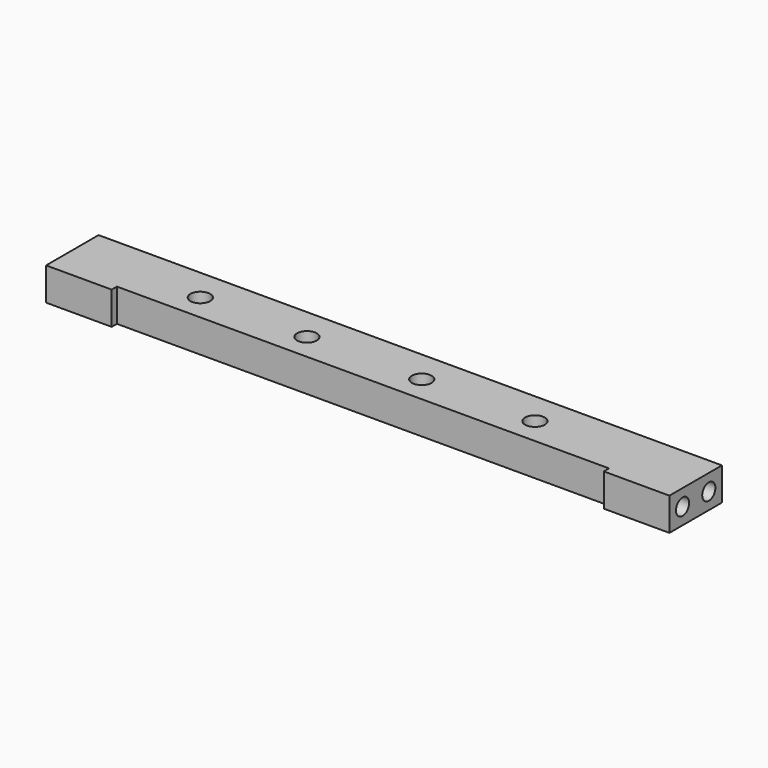
from build123d import *

# Parameters (mm, degrees)
F0_W     = 190
F0_H     = 10
F1_DEPTH = 20
F2_R     = 3
F2_W     = 150
F2_H     = 2
F3_DEPTH = 10
F4_R     = 2.5
F5_DEPTH = 10
F6_R     = 2.5
F7_DEPTH = 10


with BuildPart() as f1:
    # F0 (on Front) → F1 (new body)
    with BuildSketch(Plane.XZ):
        Rectangle(F0_W, F0_H)
    extrude(amount=F1_DEPTH)

    # F2 (on face) → F3 (cut)
    with BuildSketch(Plane.XY.offset(5)):
        with Locations((-56, -10)):
            Circle(F2_R)
        with Locations((-23.5, -10)):
            Circle(F2_R)
        with Locations((11.5, -10)):
            Circle(F2_R)
        with Locations((46, -10)):
            Circle(F2_R)
        with Locations((0, -19)):
            Rectangle(F2_W, F2_H)
    extrude(amount=-F3_DEPTH, mode=Mode.SUBTRACT)

    # F4 (on face) → F5 (cut)
    with BuildSketch(Plane(origin=(-95, 0, 0), x_dir=(0, -1, 0), z_dir=(-1, 0, 0))):
        with Locations((5, 0)):
            Circle(F4_R)
        with Locations((15, 0)):
            Circle(F4_R)
    extrude(amount=-F5_DEPTH, mode=Mode.SUBTRACT)

    # F6 (on face) → F7 (cut)
    with BuildSketch(Plane.YZ.offset(95)):
        with Locations((-5, 0)):
            Circle(F6_R)
        with Locations((-15, 0)):
            Circle(F6_R)
    extrude(amount=-F7_DEPTH, mode=Mode.SUBTRACT)


solid = f1.part
